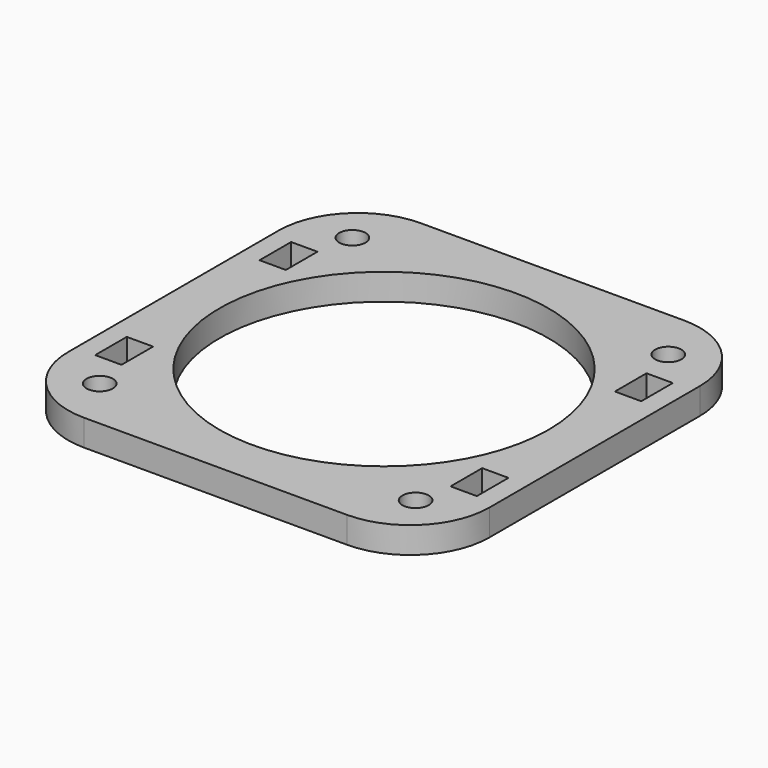
from build123d import *

# Parameters (mm, degrees)
F0_R     = 1
F0_W     = 2
F0_H     = 3
F0_R_2   = 12.5
F1_DEPTH = 2
F2_DEPTH = 2


with BuildPart() as f1:
    # F0 (on Top) → F1 (new body)
    with BuildSketch(Plane.XY):
        with BuildLine():
            Line((10, 16), (-10, 16))
            ThreePointArc((-10, 16), (-14.2426406871, 14.2426406871), (-16, 10))
            Line((-16, 10), (-16, -10))
            ThreePointArc((-16, -10), (-14.2426406871, -14.2426406871), (-10, -16))
            Line((-10, -16), (10, -16))
            ThreePointArc((10, -16), (14.2426406871, -14.2426406871), (16, -10))
            Line((16, -10), (16, 10))
            ThreePointArc((16, 10), (14.2426406871, 14.2426406871), (10, 16))
        make_face()
        with Locations((-12, -12)):
            Circle(F0_R, mode=Mode.SUBTRACT)
        with Locations((-13.5, -7.8047601065)):
            Rectangle(F0_W, F0_H, mode=Mode.SUBTRACT)
        with Locations((12, -12)):
            Circle(F0_R, mode=Mode.SUBTRACT)
        with Locations((13.5, -7.8047601065)):
            Rectangle(F0_W, F0_H, mode=Mode.SUBTRACT)
        with Locations((-13.5, 7.8047601065)):
            Rectangle(F0_W, F0_H, mode=Mode.SUBTRACT)
        with Locations((-12, 12)):
            Circle(F0_R, mode=Mode.SUBTRACT)
        Circle(F0_R_2, mode=Mode.SUBTRACT)
        with Locations((13.5, 7.8047601065)):
            Rectangle(F0_W, F0_H, mode=Mode.SUBTRACT)
        with Locations((12, 12)):
            Circle(F0_R, mode=Mode.SUBTRACT)
    extrude(amount=F1_DEPTH)

    # F0 (on Top) → F2 (join)
    with BuildSketch(Plane.XY):
        with BuildLine():
            Line((10, 16), (-10, 16))
            ThreePointArc((-10, 16), (-14.2426406871, 14.2426406871), (-16, 10))
            Line((-16, 10), (-16, -10))
            ThreePointArc((-16, -10), (-14.2426406871, -14.2426406871), (-10, -16))
            Line((-10, -16), (10, -16))
            ThreePointArc((10, -16), (14.2426406871, -14.2426406871), (16, -10))
            Line((16, -10), (16, 10))
            ThreePointArc((16, 10), (14.2426406871, 14.2426406871), (10, 16))
        make_face()
        with Locations((-12, -12)):
            Circle(F0_R, mode=Mode.SUBTRACT)
        with Locations((-13.5, -7.8047601065)):
            Rectangle(F0_W, F0_H, mode=Mode.SUBTRACT)
        with Locations((12, -12)):
            Circle(F0_R, mode=Mode.SUBTRACT)
        with Locations((13.5, -7.8047601065)):
            Rectangle(F0_W, F0_H, mode=Mode.SUBTRACT)
        with Locations((-13.5, 7.8047601065)):
            Rectangle(F0_W, F0_H, mode=Mode.SUBTRACT)
        with Locations((-12, 12)):
            Circle(F0_R, mode=Mode.SUBTRACT)
        Circle(F0_R_2, mode=Mode.SUBTRACT)
        with Locations((13.5, 7.8047601065)):
            Rectangle(F0_W, F0_H, mode=Mode.SUBTRACT)
        with Locations((12, 12)):
            Circle(F0_R, mode=Mode.SUBTRACT)
    extrude(amount=F2_DEPTH)


solid = f1.part
